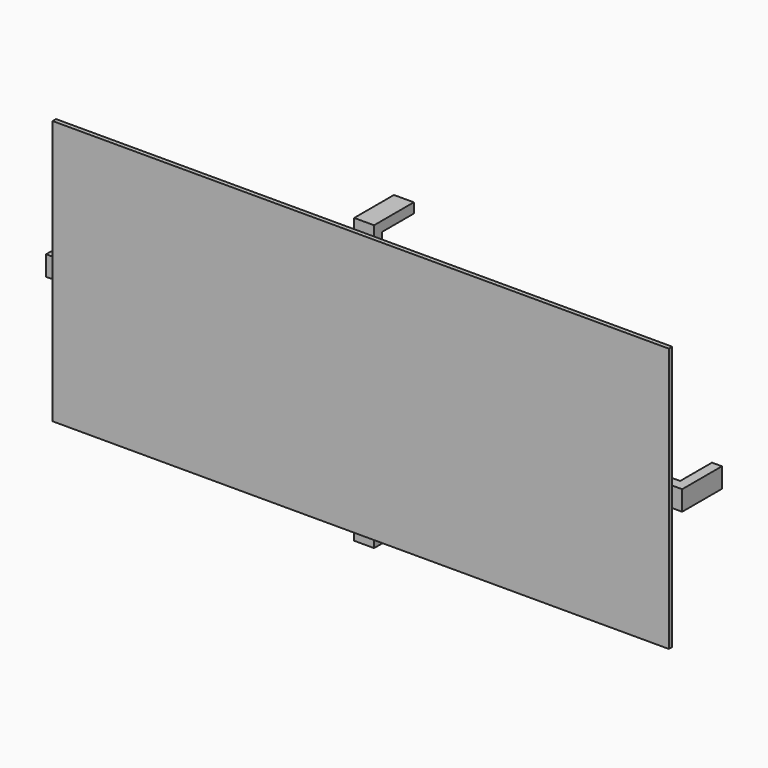
from build123d import *

# Parameters (mm, degrees)
F0_W     = 310
F0_H     = 133
F1_DEPTH = 1.07
F2_W     = 10
F2_H     = 15
F2_W_2   = 15
F2_H_2   = 10
F3_DEPTH = 5
F4_W     = 5
F4_H     = 10
F4_W_2   = 10
F4_H_2   = 5
F5_DEPTH = 20


with BuildPart() as f1:
    # F0 (on Front) → F1 (new body, symmetric)
    with BuildSketch(Plane.XZ):
        Rectangle(F0_W, F0_H)
    extrude(amount=F1_DEPTH, both=True)

    # F2 (on face) → F3 (join)
    with BuildSketch(Plane(origin=(0, 1.07, 0), x_dir=(-1, 0, 0), z_dir=(0, 1, 0))):
        with Locations((0, 64)):
            Rectangle(F2_W, F2_H)
        with Locations((-152.5, 0)):
            Rectangle(F2_W_2, F2_H_2)
        with Locations((0, -64)):
            Rectangle(F2_W, F2_H)
        with Locations((152.5, 0)):
            Rectangle(F2_W_2, F2_H_2)
    extrude(amount=F3_DEPTH)

    # F4 (on face) → F5 (join)
    with BuildSketch(Plane(origin=(0, 6.07, 0), x_dir=(-1, 0, 0), z_dir=(0, 1, 0))):
        with Locations((-157.5, 0)):
            Rectangle(F4_W, F4_H)
        with Locations((157.5, 0)):
            Rectangle(F4_W, F4_H)
        with Locations((0, 69)):
            Rectangle(F4_W_2, F4_H_2)
        with Locations((0, -69)):
            Rectangle(F4_W_2, F4_H_2)
    extrude(amount=F5_DEPTH)


solid = f1.part
